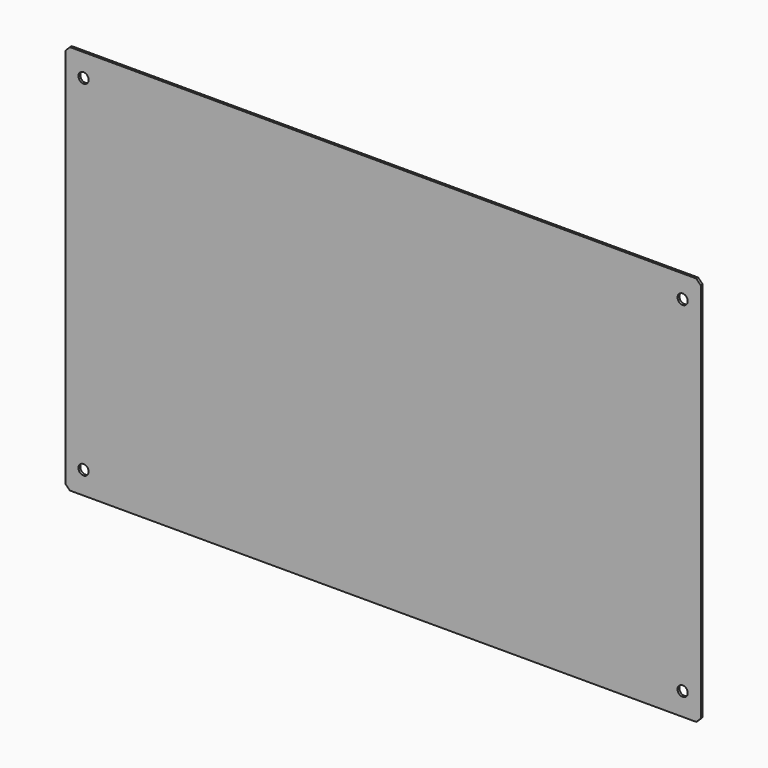
from build123d import *

# Parameters (mm, degrees)
F0_W     = 444.5
F0_H     = 273.05
F1_DEPTH = 1.6002
F2_SIZE  = 3.175
F4_D     = 7.1374


with BuildPart() as f1:
    # F0 (on Front) → F1 (new body)
    with BuildSketch(Plane.XZ):
        Rectangle(F0_W, F0_H)
    extrude(amount=F1_DEPTH)

    # F2
    f2_edges = [f1.edges().sort_by_distance(p)[0] for p in [
        (-222.25, -0.8001, 136.525),
        (-222.25, -0.8001, -136.525),
        (222.25, -0.8001, -136.525),
        (222.25, -0.8001, 136.525),
    ]]
    chamfer(f2_edges, length=F2_SIZE)

    # F4 (through all)
    with Locations(Plane.XZ.offset(1.6002)):
        with Locations((-209.55, 120.65), (209.55, 120.65), (209.55, -120.65), (-209.55, -120.65)):
            Hole(F4_D / 2)


solid = f1.part
